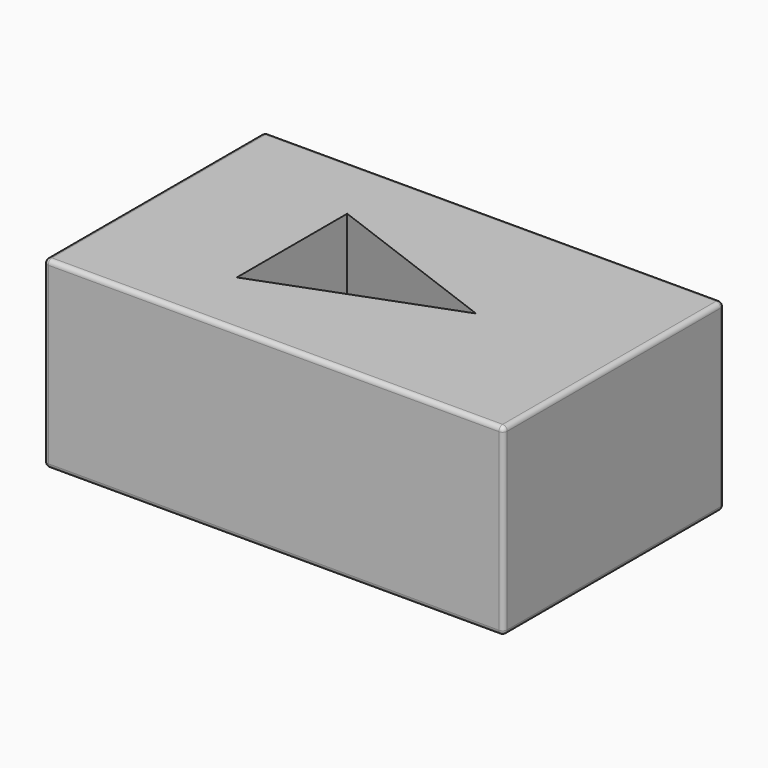
from build123d import *

# Parameters (mm, degrees)
F0_W     = 50
F0_H     = 30
F1_DEPTH = 20
F3_DEPTH = 20.001
F4_R     = 0.5


with BuildPart() as f1:
    # F0 (on Top) → F1 (new body)
    with BuildSketch(Plane.XY):
        Rectangle(F0_W, F0_H)
    extrude(amount=F1_DEPTH)

    # F2 (on face) → F3 (cut, through all)
    with BuildSketch(Plane.XY.offset(20)):
        Polygon((10, 0), (-10, 7.5), (-10, -7.5), align=None)
    extrude(amount=-F3_DEPTH, mode=Mode.SUBTRACT)

    # F4
    f4_edges = [f1.edges().sort_by_distance(p)[0] for p in [
        (-25, -15, 10),
        (25, -15, 10),
        (0, -15, 0),
        (0, -15, 20),
        (-25, 15, 10),
        (-25, 0, 0),
        (-25, 0, 20),
        (25, 15, 10),
        (25, 0, 0),
        (25, 0, 20),
        (0, 15, 0),
        (0, 15, 20),
    ]]
    fillet(f4_edges, radius=F4_R)


solid = f1.part
